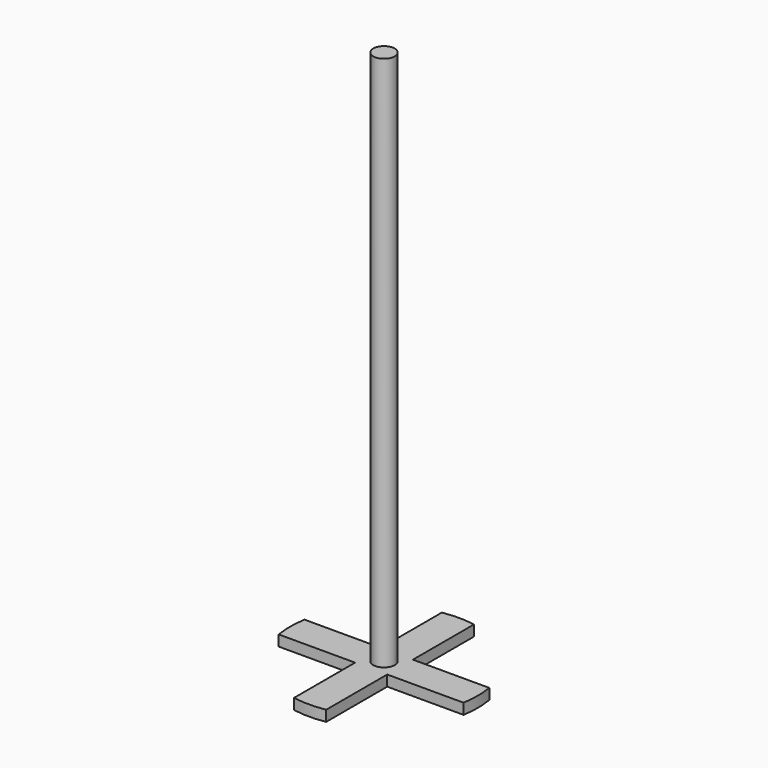
from build123d import *

# Parameters (mm, degrees)
F1_DEPTH = 2
F2_R     = 2
F3_DEPTH = 100


with BuildPart() as f1:
    # F0 (on Top) → F1 (new body)
    with BuildSketch(Plane.XY):
        with BuildLine():
            Line((3, 3), (3, 17.24094))
            ThreePointArc((3, 17.24094), (0, 17.5), (-3, 17.24094))
            Line((-3, 17.24094), (-3, 3))
            Line((-3, 3), (-17.24094, 3))
            ThreePointArc((-17.24094, 3), (-17.5, 0), (-17.24094, -3))
            Line((-17.24094, -3), (-3, -3))
            Line((-3, -3), (-3, -17.24094))
            ThreePointArc((-3, -17.24094), (0, -17.5), (3, -17.24094))
            Line((3, -17.24094), (3, -3))
            Line((3, -3), (17.24094, -3))
            ThreePointArc((17.24094, -3), (17.5, 0), (17.24094, 3))
            Line((17.24094, 3), (3, 3))
        make_face()
    extrude(amount=F1_DEPTH)

    # F2 (on face) → F3 (join)
    with BuildSketch(Plane.XY.offset(2)):
        Circle(F2_R)
    extrude(amount=F3_DEPTH)


solid = f1.part
